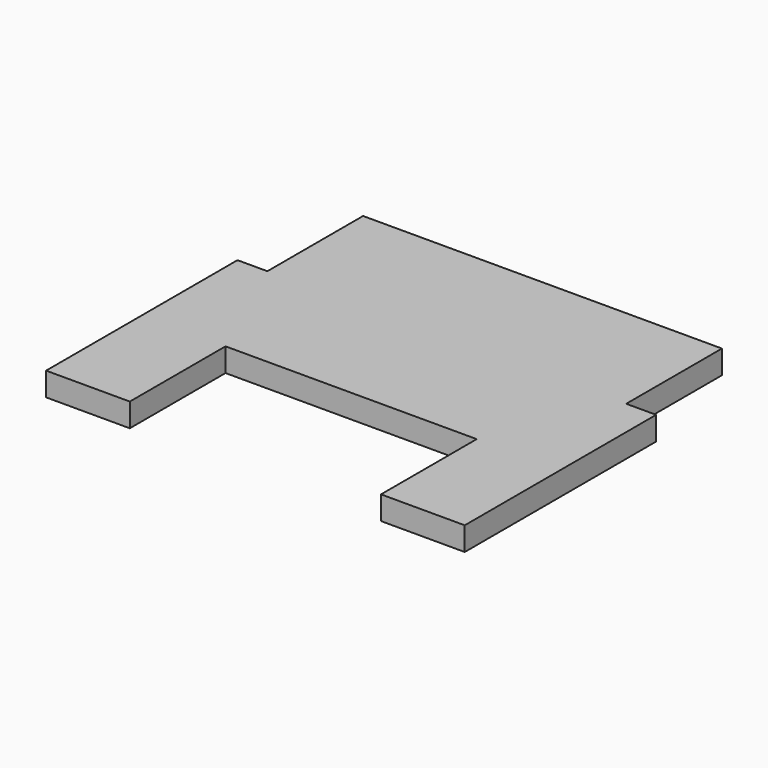
from build123d import *

# Parameters (mm, degrees)
F0_W     = 152.4
F0_H     = 25.4
F0_H_2   = 50.8
F1_DEPTH = 10
F2_W     = 106.68
F2_H     = 50.8
F3_DEPTH = 25.4


with BuildPart() as f1:
    # F0 (on Top) → F1 (new body)
    with BuildSketch(Plane.XY):
        Polygon((88.9, -76.2), (88.9, 25.4), (76.2, 25.4), (76.2, 0), (-76.2, 0), (-76.2, 25.4), (-88.9, 25.4), (-88.9, -76.2), align=None)
        with Locations((0, 12.7)):
            Rectangle(F0_W, F0_H)
        with Locations((0, 50.8)):
            Rectangle(F0_W, F0_H_2)
    extrude(amount=F1_DEPTH)

    # F2 (on face) → F3 (cut)
    with BuildSketch(Plane.XY.offset(10)):
        with Locations((0, -50.8)):
            Rectangle(F2_W, F2_H)
    extrude(amount=-F3_DEPTH, mode=Mode.SUBTRACT)


solid = f1.part
